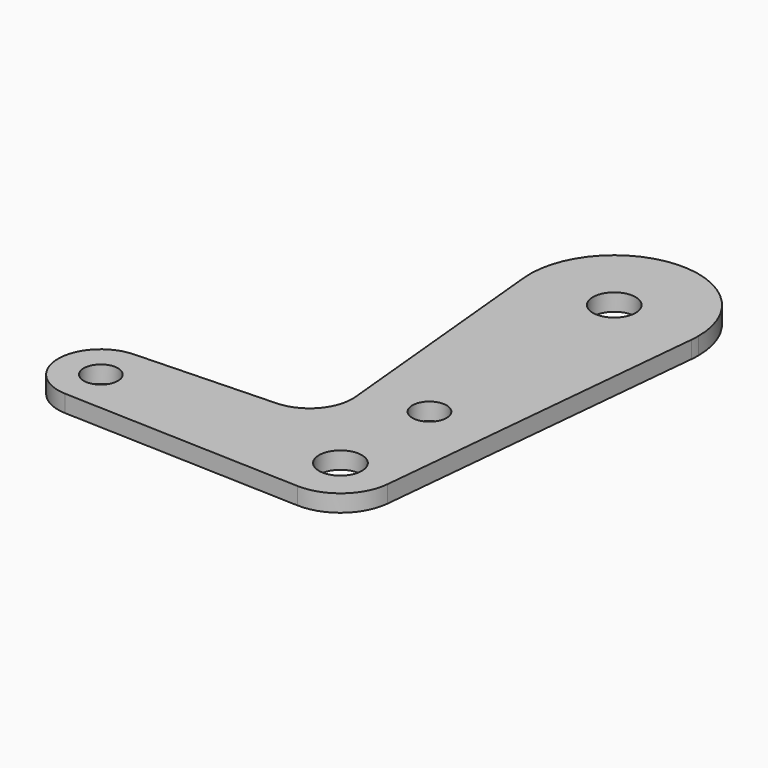
from build123d import *

# Parameters (mm, degrees)
F0_R     = 3.175
F0_R_2   = 3.96875
F1_DEPTH = 3.175
F2_R     = 7.9375


with BuildPart() as f1:
    # F0 (on Top) → F1 (new body)
    with BuildSketch(Plane.XY):
        with BuildLine():
            ThreePointArc((-44.7334821429, -7.9324362036), (-38.9384772185, -5.7120069047), (-36.5125, 0))
            ThreePointArc((-36.5125, 0), (-38.9384772185, 5.7120069047), (-44.7334821429, 7.9324362036))
            ThreePointArc((-44.7334821429, 7.9324362036), (-52.3875, 0), (-44.7334821429, -7.9324362036))
        make_face()
        with Locations((-44.45, 0)):
            Circle(F0_R, mode=Mode.SUBTRACT)
        with BuildLine():
            ThreePointArc((-44.7334821429, 7.9324362036), (-38.9384772185, 5.7120069047), (-36.5125, 0))
            ThreePointArc((-36.5125, 0), (-38.9384772185, -5.7120069047), (-44.7334821429, -7.9324362036))
            Line((-44.7334821429, -7.9324362036), (-0.3401785714, -9.5189234444))
            ThreePointArc((-0.3401785714, -9.5189234444), (-6.5286582423, -6.9355783144), (-9.481007206, -0.9144))
            Line((-9.481007206, -0.9144), (-10.4524001899, 9.157542126))
            Line((-10.4524001899, 9.157542126), (-44.7334821429, 7.9324362036))
        make_face()
        with BuildLine():
            Line((-0.3401786498, 9.5189234416), (-10.4524001899, 9.157542126))
            Line((-10.4524001899, 9.157542126), (-9.481007206, -0.9144))
            ThreePointArc((-9.481007206, -0.9144), (-7.1643200942, 6.2767939736), (-0.3401786498, 9.5189234416))
        make_face()
        with BuildLine():
            Line((-15.5488518178, 62.000384), (-10.4524001899, 9.157542126))
            Line((-10.4524001899, 9.157542126), (-0.3401786498, 9.5189234416))
            ThreePointArc((-0.3401786498, 9.5189234416), (6.6138273095, 6.8544083129), (9.525, 0))
            ThreePointArc((9.525, 0), (9.5139954445, -0.4577288296), (9.481007206, -0.9144))
            Line((9.481007206, -0.9144), (15.5488518178, 62.000384))
            ThreePointArc((15.5488518178, 62.000384), (0, 47.879), (-15.5488518178, 62.000384))
        make_face()
        with Locations((0, 20.6502)):
            Circle(F0_R, mode=Mode.SUBTRACT)
        with BuildLine():
            ThreePointArc((-9.481007206, -0.9144), (-6.5286582423, -6.9355783144), (-0.3401785714, -9.5189234444))
            ThreePointArc((-0.3401785714, -9.5189234444), (6.2767940031, -7.1643200684), (9.481007206, -0.9144))
            ThreePointArc((9.481007206, -0.9144), (9.5139954445, -0.4577288296), (9.525, 0))
            ThreePointArc((9.525, 0), (6.6138273095, 6.8544083129), (-0.3401786498, 9.5189234416))
            ThreePointArc((-0.3401786498, 9.5189234416), (-7.1643200942, 6.2767939736), (-9.481007206, -0.9144))
        make_face()
        Circle(F0_R_2, mode=Mode.SUBTRACT)
        with BuildLine():
            ThreePointArc((15.621, 63.5), (-0.7506752806, 79.102952529), (-15.5488518178, 62.000384))
            ThreePointArc((-15.5488518178, 62.000384), (0, 47.879), (15.5488518178, 62.000384))
            ThreePointArc((15.5488518178, 62.000384), (15.602952529, 62.7493247194), (15.621, 63.5))
        make_face()
        with Locations((0, 63.5)):
            Circle(F0_R_2, mode=Mode.SUBTRACT)
    extrude(amount=F1_DEPTH)

    # F2
    f2_edges = [f1.edges().sort_by_distance(p)[0] for p in [
        (-10.4524, 9.157542, 1.5875),
    ]]
    fillet(f2_edges, radius=F2_R)


solid = f1.part
